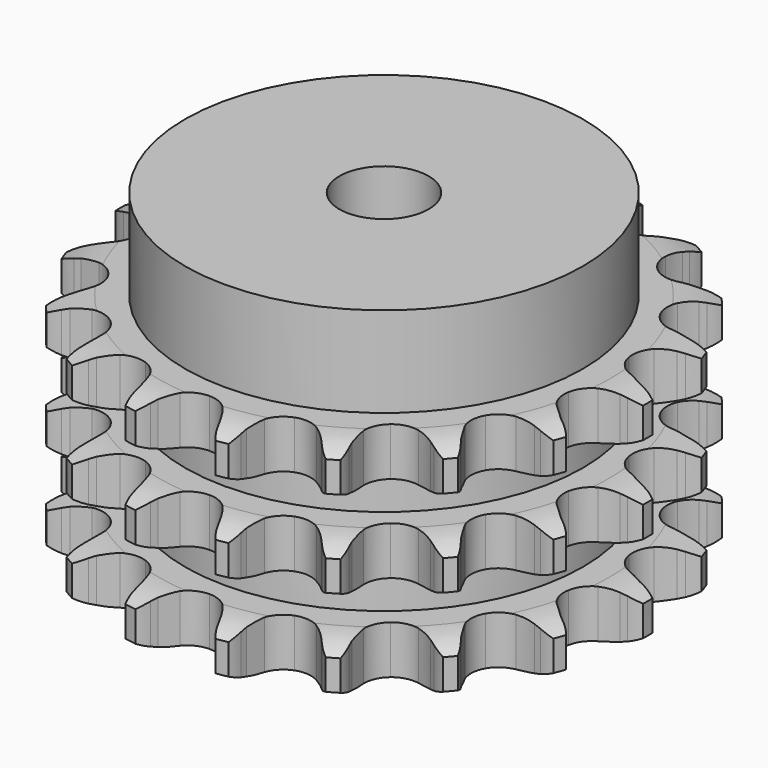
from build123d import *

# Parameters (mm, degrees)
PAD_DEPTH         = 49.8
SKETCH001_R       = 44.5
PAD001_DEPTH      = 70
SKETCH002_R       = 10
POCKET_DEPTH      = 0.001
POCKET_DEPTH_BACK = 70.001


with BuildPart() as part:
    # Sprocket → Pad (new body)
    with BuildSketch(Plane.XY):
        with BuildLine():
            ThreePointArc((-10.555317, 59.862178), (-8.754711, 58.078438), (-7.459976, 55.899546))
            Line((-7.459976, 55.899546), (-6.883971, 54.571303))
            ThreePointArc((-6.883971, 54.571303), (-5.949732, 52.750867), (-4.787505, 51.066821))
            ThreePointArc((-4.787505, 51.066821), (-2.659531, 49.358942), (0, 48.749014))
            ThreePointArc((0, 48.749014), (2.659531, 49.358942), (4.787505, 51.066821))
            ThreePointArc((4.787505, 51.066821), (5.949732, 52.750867), (6.883971, 54.571303))
            Line((6.883971, 54.571303), (7.459976, 55.899546))
            ThreePointArc((7.459976, 55.899546), (8.754711, 58.078438), (10.555317, 59.862178))
            ThreePointArc((10.555317, 59.862178), (11.637258, 57.570167), (12.108686, 55.079853))
            Line((12.108686, 55.079853), (12.195668, 53.634707))
            ThreePointArc((12.195668, 53.634707), (12.45094, 51.604529), (12.967099, 49.624538))
            ThreePointArc((12.967099, 49.624538), (14.38261, 47.291847), (16.673145, 45.809089))
            ThreePointArc((16.673145, 45.809089), (19.380895, 45.47262), (21.964664, 46.349692))
            Line((21.964664, 46.349692), (25.133301, 48.925794))
            ThreePointArc((25.133301, 48.925794), (25.619001, 49.4628), (26.128855, 49.976929))
            ThreePointArc((26.128855, 49.976929), (28.090733, 51.581592), (30.392824, 52.641916))
            ThreePointArc((30.392824, 52.641916), (30.625603, 50.118085), (30.216862, 47.616717))
            Line((30.216862, 47.616717), (29.80433, 46.228974))
            ThreePointArc((29.80433, 46.228974), (29.349845, 44.233923), (29.157679, 42.196803))
            ThreePointArc((29.157679, 42.196803), (29.689997, 39.520657), (31.335262, 37.343911))
            ThreePointArc((31.335262, 37.343911), (33.764636, 36.101629), (36.492561, 36.042106))
            Line((36.492561, 36.042106), (40.351185, 37.379112))
            ThreePointArc((40.351185, 37.379112), (40.99126, 37.717613), (41.646209, 38.026356))
            ThreePointArc((41.646209, 38.026356), (44.038598, 38.863245), (46.564508, 39.072262))
            ThreePointArc((46.564508, 39.072262), (45.920047, 36.621021), (44.680439, 34.410302))
            Line((44.680439, 34.410302), (43.818149, 33.247345))
            ThreePointArc((43.818149, 33.247345), (42.708725, 31.528053), (41.831412, 29.679511))
            ThreePointArc((41.831412, 29.679511), (41.416332, 26.982693), (42.217884, 24.374507))
            ThreePointArc((42.217884, 24.374507), (44.075864, 22.376249), (46.618917, 21.38731))
            Line((46.618917, 21.38731), (50.70212, 21.323958))
            ThreePointArc((50.70212, 21.323958), (51.419368, 21.423126), (52.140415, 21.489244))
            ThreePointArc((52.140415, 21.489244), (54.674758, 21.457417), (57.119825, 20.789916))
            ThreePointArc((57.119825, 20.789916), (55.675857, 18.706922), (53.754895, 17.053497))
            Line((53.754895, 17.053497), (52.546853, 16.255595))
            ThreePointArc((52.546853, 16.255595), (50.916303, 15.019435), (49.45966, 13.582432))
            ThreePointArc((49.45966, 13.582432), (48.147246, 11.190218), (48.008407, 8.465177))
            ThreePointArc((48.008407, 8.465177), (49.070892, 5.951963), (51.122343, 4.152889))
            Line((51.122343, 4.152889), (54.937631, 2.69682))
            ThreePointArc((54.937631, 2.69682), (55.645542, 2.544694), (56.345717, 2.360212))
            ThreePointArc((56.345717, 2.360212), (58.716336, 1.463508), (60.785649, 0))
            ThreePointArc((60.785649, 0), (58.716336, -1.463508), (56.345717, -2.360212))
            Line((56.345717, -2.360212), (54.937631, -2.69682))
            ThreePointArc((54.937631, -2.69682), (52.982623, -3.300749), (51.122343, -4.152889))
            ThreePointArc((51.122343, -4.152889), (49.070892, -5.951963), (48.008407, -8.465177))
            ThreePointArc((48.008407, -8.465177), (48.147246, -11.190218), (49.45966, -13.582432))
            Line((49.45966, -13.582432), (52.546853, -16.255595))
            ThreePointArc((52.546853, -16.255595), (53.160041, -16.640666), (53.754895, -17.053497))
            ThreePointArc((53.754895, -17.053497), (55.675857, -18.706922), (57.119825, -20.789916))
            ThreePointArc((57.119825, -20.789916), (54.674758, -21.457417), (52.140415, -21.489244))
            Line((52.140415, -21.489244), (50.70212, -21.323958))
            ThreePointArc((50.70212, -21.323958), (48.658457, -21.222814), (46.618917, -21.38731))
            ThreePointArc((46.618917, -21.38731), (44.075864, -22.376249), (42.217884, -24.374507))
            ThreePointArc((42.217884, -24.374507), (41.416332, -26.982693), (41.831412, -29.679511))
            Line((41.831412, -29.679511), (43.818149, -33.247345))
            ThreePointArc((43.818149, -33.247345), (44.262656, -33.818916), (44.680439, -34.410302))
            ThreePointArc((44.680439, -34.410302), (45.920047, -36.621021), (46.564508, -39.072262))
            ThreePointArc((46.564508, -39.072262), (44.038598, -38.863245), (41.646209, -38.026356))
            Line((41.646209, -38.026356), (40.351185, -37.379112))
            ThreePointArc((40.351185, -37.379112), (38.465363, -36.585095), (36.492561, -36.042106))
            ThreePointArc((36.492561, -36.042106), (33.764636, -36.101629), (31.335262, -37.343911))
            ThreePointArc((31.335262, -37.343911), (29.689997, -39.520657), (29.157679, -42.196803))
            Line((29.157679, -42.196803), (29.80433, -46.228974))
            ThreePointArc((29.80433, -46.228974), (30.02654, -46.918106), (30.216862, -47.616717))
            ThreePointArc((30.216862, -47.616717), (30.625603, -50.118085), (30.392824, -52.641916))
            ThreePointArc((30.392824, -52.641916), (28.090733, -51.581592), (26.128855, -49.976929))
            Line((26.128855, -49.976929), (25.133301, -48.925794))
            ThreePointArc((25.133301, -48.925794), (23.632779, -47.534673), (21.964664, -46.349692))
            ThreePointArc((21.964664, -46.349692), (19.380895, -45.47262), (16.673145, -45.809089))
            ThreePointArc((16.673145, -45.809089), (14.38261, -47.291847), (12.967099, -49.624538))
            Line((12.967099, -49.624538), (12.195668, -53.634707))
            ThreePointArc((12.195668, -53.634707), (12.168781, -54.358279), (12.108686, -55.079853))
            ThreePointArc((12.108686, -55.079853), (11.637258, -57.570167), (10.555317, -59.862178))
            ThreePointArc((10.555317, -59.862178), (8.754711, -58.078438), (7.459976, -55.899546))
            Line((7.459976, -55.899546), (6.883971, -54.571303))
            ThreePointArc((6.883971, -54.571303), (5.949732, -52.750867), (4.787505, -51.066821))
            ThreePointArc((4.787505, -51.066821), (2.659531, -49.358942), (0, -48.749014))
            ThreePointArc((0, -48.749014), (-2.659531, -49.358942), (-4.787505, -51.066821))
            Line((-4.787505, -51.066821), (-6.883971, -54.571303))
            ThreePointArc((-6.883971, -54.571303), (-7.156713, -55.242042), (-7.459976, -55.899546))
            ThreePointArc((-7.459976, -55.899546), (-8.754711, -58.078438), (-10.555317, -59.862178))
            ThreePointArc((-10.555317, -59.862178), (-11.637258, -57.570167), (-12.108686, -55.079853))
            Line((-12.108686, -55.079853), (-12.195668, -53.634707))
            ThreePointArc((-12.195668, -53.634707), (-12.45094, -51.604529), (-12.967099, -49.624538))
            ThreePointArc((-12.967099, -49.624538), (-14.38261, -47.291847), (-16.673145, -45.809089))
            ThreePointArc((-16.673145, -45.809089), (-19.380895, -45.47262), (-21.964664, -46.349692))
            Line((-21.964664, -46.349692), (-25.133301, -48.925794))
            ThreePointArc((-25.133301, -48.925794), (-25.619001, -49.4628), (-26.128855, -49.976929))
            ThreePointArc((-26.128855, -49.976929), (-28.090733, -51.581592), (-30.392824, -52.641916))
            ThreePointArc((-30.392824, -52.641916), (-30.625603, -50.118085), (-30.216862, -47.616717))
            Line((-30.216862, -47.616717), (-29.80433, -46.228974))
            ThreePointArc((-29.80433, -46.228974), (-29.349845, -44.233923), (-29.157679, -42.196803))
            ThreePointArc((-29.157679, -42.196803), (-29.689997, -39.520657), (-31.335262, -37.343911))
            ThreePointArc((-31.335262, -37.343911), (-33.764636, -36.101629), (-36.492561, -36.042106))
            Line((-36.492561, -36.042106), (-40.351185, -37.379112))
            ThreePointArc((-40.351185, -37.379112), (-40.99126, -37.717613), (-41.646209, -38.026356))
            ThreePointArc((-41.646209, -38.026356), (-44.038598, -38.863245), (-46.564508, -39.072262))
            ThreePointArc((-46.564508, -39.072262), (-45.920047, -36.621021), (-44.680439, -34.410302))
            Line((-44.680439, -34.410302), (-43.818149, -33.247345))
            ThreePointArc((-43.818149, -33.247345), (-42.708725, -31.528053), (-41.831412, -29.679511))
            ThreePointArc((-41.831412, -29.679511), (-41.416332, -26.982693), (-42.217884, -24.374507))
            ThreePointArc((-42.217884, -24.374507), (-44.075864, -22.376249), (-46.618917, -21.38731))
            Line((-46.618917, -21.38731), (-50.70212, -21.323958))
            ThreePointArc((-50.70212, -21.323958), (-51.419368, -21.423126), (-52.140415, -21.489244))
            ThreePointArc((-52.140415, -21.489244), (-54.674758, -21.457417), (-57.119825, -20.789916))
            ThreePointArc((-57.119825, -20.789916), (-55.675857, -18.706922), (-53.754895, -17.053497))
            Line((-53.754895, -17.053497), (-52.546853, -16.255595))
            ThreePointArc((-52.546853, -16.255595), (-50.916303, -15.019435), (-49.45966, -13.582432))
            ThreePointArc((-49.45966, -13.582432), (-48.147246, -11.190218), (-48.008407, -8.465177))
            ThreePointArc((-48.008407, -8.465177), (-49.070892, -5.951963), (-51.122343, -4.152889))
            Line((-51.122343, -4.152889), (-54.937631, -2.69682))
            ThreePointArc((-54.937631, -2.69682), (-55.645542, -2.544694), (-56.345717, -2.360212))
            ThreePointArc((-56.345717, -2.360212), (-58.716336, -1.463508), (-60.785649, 0))
            ThreePointArc((-60.785649, 0), (-58.716336, 1.463508), (-56.345717, 2.360212))
            Line((-56.345717, 2.360212), (-54.937631, 2.69682))
            ThreePointArc((-54.937631, 2.69682), (-52.982623, 3.300749), (-51.122343, 4.152889))
            ThreePointArc((-51.122343, 4.152889), (-49.070892, 5.951963), (-48.008407, 8.465177))
            ThreePointArc((-48.008407, 8.465177), (-48.147246, 11.190218), (-49.45966, 13.582432))
            Line((-49.45966, 13.582432), (-52.546853, 16.255595))
            ThreePointArc((-52.546853, 16.255595), (-53.160041, 16.640666), (-53.754895, 17.053497))
            ThreePointArc((-53.754895, 17.053497), (-55.675857, 18.706922), (-57.119825, 20.789916))
            ThreePointArc((-57.119825, 20.789916), (-54.674758, 21.457417), (-52.140415, 21.489244))
            Line((-52.140415, 21.489244), (-50.70212, 21.323958))
            ThreePointArc((-50.70212, 21.323958), (-48.658457, 21.222814), (-46.618917, 21.38731))
            ThreePointArc((-46.618917, 21.38731), (-44.075864, 22.376249), (-42.217884, 24.374507))
            ThreePointArc((-42.217884, 24.374507), (-41.416332, 26.982693), (-41.831412, 29.679511))
            Line((-41.831412, 29.679511), (-43.818149, 33.247345))
            ThreePointArc((-43.818149, 33.247345), (-44.262656, 33.818916), (-44.680439, 34.410302))
            ThreePointArc((-44.680439, 34.410302), (-45.920047, 36.621021), (-46.564508, 39.072262))
            ThreePointArc((-46.564508, 39.072262), (-44.038598, 38.863245), (-41.646209, 38.026356))
            Line((-41.646209, 38.026356), (-40.351185, 37.379112))
            ThreePointArc((-40.351185, 37.379112), (-38.465363, 36.585095), (-36.492561, 36.042106))
            ThreePointArc((-36.492561, 36.042106), (-33.764636, 36.101629), (-31.335262, 37.343911))
            ThreePointArc((-31.335262, 37.343911), (-29.689997, 39.520657), (-29.157679, 42.196803))
            Line((-29.157679, 42.196803), (-29.80433, 46.228974))
            ThreePointArc((-29.80433, 46.228974), (-30.02654, 46.918106), (-30.216862, 47.616717))
            ThreePointArc((-30.216862, 47.616717), (-30.625603, 50.118085), (-30.392824, 52.641916))
            ThreePointArc((-30.392824, 52.641916), (-28.090733, 51.581592), (-26.128855, 49.976929))
            Line((-26.128855, 49.976929), (-25.133301, 48.925794))
            ThreePointArc((-25.133301, 48.925794), (-23.632779, 47.534673), (-21.964664, 46.349692))
            ThreePointArc((-21.964664, 46.349692), (-19.380895, 45.47262), (-16.673145, 45.809089))
            ThreePointArc((-16.673145, 45.809089), (-14.38261, 47.291847), (-12.967099, 49.624538))
            Line((-12.967099, 49.624538), (-12.195668, 53.634707))
            ThreePointArc((-12.195668, 53.634707), (-12.168781, 54.358279), (-12.108686, 55.079853))
            ThreePointArc((-12.108686, 55.079853), (-11.637258, 57.570167), (-10.555317, 59.862178))
        make_face()
    extrude(amount=PAD_DEPTH)

    # Sketch → Groove (revolve, cut)
    with BuildSketch(Plane.XZ):
        with BuildLine():
            ThreePointArc((50.514719, 0), (54.873618, 0.506758), (59, 2))
            Line((59, 2), (59, 8.8))
            ThreePointArc((59, 8.8), (54.873618, 10.293242), (50.514719, 10.8))
            Line((44.5, 10.8), (50.514719, 10.8))
            Line((44.5, 10.8), (44.5, 19.5))
            Line((44.5, 19.5), (50.514719, 19.5))
            ThreePointArc((50.514719, 19.5), (54.873618, 20.006758), (59, 21.5))
            Line((59, 28.3), (59, 21.5))
            ThreePointArc((59, 28.3), (54.873618, 29.793242), (50.514719, 30.3))
            Line((44.5, 30.3), (50.514719, 30.3))
            Line((44.5, 39), (44.5, 30.3))
            Line((50.514719, 39), (44.5, 39))
            ThreePointArc((50.514719, 39), (54.873618, 39.506758), (59, 41))
            Line((59, 41), (59, 47.8))
            ThreePointArc((59, 47.8), (54.873618, 49.293242), (50.514719, 49.8))
            Line((50.514719, 49.8), (69, 49.8))
            Line((69, 49.8), (69, 0))
            Line((50.514719, 0), (69, 0))
        make_face()
    revolve(axis=Axis((0, 0, 0), (0, 0, 1)), mode=Mode.SUBTRACT)

    # Sketch001 → Pad001 (join)
    with BuildSketch(Plane.XY):
        Circle(SKETCH001_R)
    extrude(amount=PAD001_DEPTH)

    # Sketch002 → Pocket (cut, two sides)
    with BuildSketch(Plane.XY) as pocket_sk:
        Circle(SKETCH002_R)
    extrude(amount=-POCKET_DEPTH, mode=Mode.SUBTRACT)
    extrude(pocket_sk.sketch, amount=POCKET_DEPTH_BACK, mode=Mode.SUBTRACT)


solid = part.part
